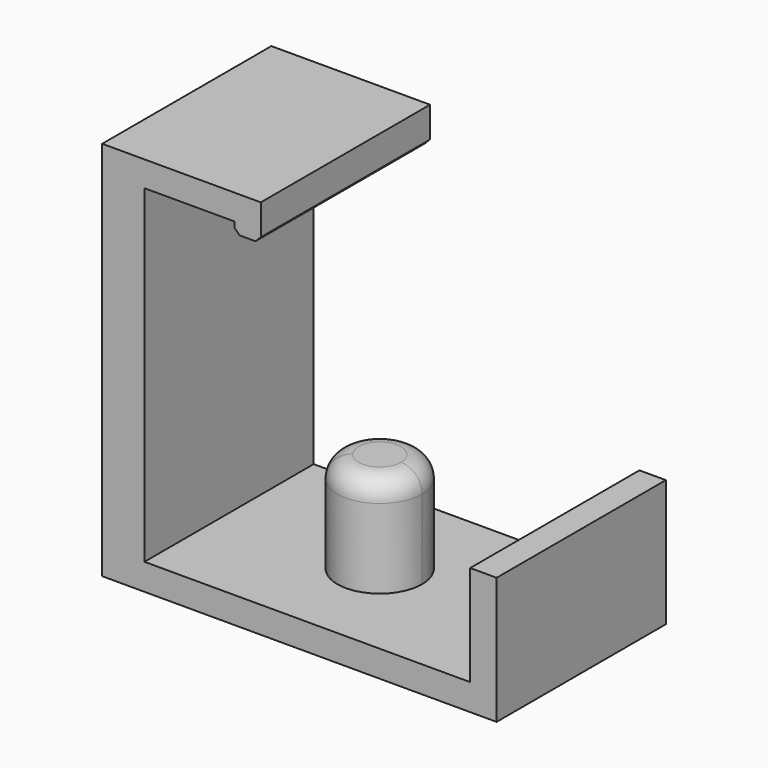
from build123d import *

# Parameters (mm, degrees)
F0_W     = 2.5
F0_H     = 20
F0_W_2   = 4
F0_W_3   = 8.5
F1_DEPTH = 2.5
F2_DEPTH = 12
F3_DEPTH = 12
F4_DEPTH = 36
F5_START = 33.6
F5_DEPTH = 2.4
F6_R     = 2
F7_START = 32.6
F7_DEPTH = 3.4
F8_SIZE  = 0.5


with BuildPart() as f1:
    # F0 (on Top) → F1 (new body)
    with BuildSketch(Plane.XY):
        with BuildLine():
            ThreePointArc((-40.6337848902, 13.9120002314), (-41.3863019049, 16.2473490834), (-40.6337848902, 18.5826979354))
            Line((-40.6337848902, 18.5826979354), (-40.6337848902, 26.2473490834))
            Line((-40.6337848902, 26.2473490834), (-43.1337848902, 26.2473490834))
            Line((-43.1337848902, 26.2473490834), (-43.1337848902, 6.2473490834))
            Line((-43.1337848902, 6.2473490834), (-40.6337848902, 6.2473490834))
            Line((-40.6337848902, 6.2473490834), (-40.6337848902, 13.9120002314))
        make_face()
        with BuildLine():
            ThreePointArc((-40.6337848902, 18.5826979354), (-36.159503621, 20.0545745785), (-33.3863019049, 16.2473490834))
            ThreePointArc((-33.3863019049, 16.2473490834), (-36.159503621, 12.4401235883), (-40.6337848902, 13.9120002314))
            Line((-40.6337848902, 13.9120002314), (-40.6337848902, 6.2473490834))
            Line((-40.6337848902, 6.2473490834), (-20.8337848902, 6.2473490834))
            Line((-20.8337848902, 6.2473490834), (-20.8337848902, 26.2473490834))
            Line((-20.8337848902, 26.2473490834), (-40.6337848902, 26.2473490834))
            Line((-40.6337848902, 26.2473490834), (-40.6337848902, 18.5826979354))
        make_face()
        with BuildLine():
            Line((-40.6337848902, 13.9120002314), (-40.6337848902, 18.5826979354))
            ThreePointArc((-40.6337848902, 18.5826979354), (-41.3863019049, 16.2473490834), (-40.6337848902, 13.9120002314))
        make_face()
        with BuildLine():
            ThreePointArc((-40.6337848902, 13.9120002314), (-36.159503621, 12.4401235883), (-33.3863019049, 16.2473490834))
            ThreePointArc((-33.3863019049, 16.2473490834), (-36.159503621, 20.0545745785), (-40.6337848902, 18.5826979354))
            Line((-40.6337848902, 18.5826979354), (-40.6337848902, 13.9120002314))
        make_face()
        with Locations((-19.5837848902, 16.2473490834)):
            Rectangle(F0_W, F0_H)
        with Locations((-53.6337848902, 16.2473490834)):
            Rectangle(F0_W_2, F0_H)
        with Locations((-47.3837848902, 16.2473490834)):
            Rectangle(F0_W_3, F0_H)
    extrude(amount=F1_DEPTH)

    # F0 (on Top) → F2 (join)
    with BuildSketch(Plane.XY):
        with Locations((-19.5837848902, 16.2473490834)):
            Rectangle(F0_W, F0_H)
    extrude(amount=F2_DEPTH)

    # F0 (on Top) → F3 (join)
    with BuildSketch(Plane.XY):
        with BuildLine():
            Line((-40.6337848902, 13.9120002314), (-40.6337848902, 18.5826979354))
            ThreePointArc((-40.6337848902, 18.5826979354), (-41.3863019049, 16.2473490834), (-40.6337848902, 13.9120002314))
        make_face()
        with BuildLine():
            ThreePointArc((-40.6337848902, 13.9120002314), (-36.159503621, 12.4401235883), (-33.3863019049, 16.2473490834))
            ThreePointArc((-33.3863019049, 16.2473490834), (-36.159503621, 20.0545745785), (-40.6337848902, 18.5826979354))
            Line((-40.6337848902, 18.5826979354), (-40.6337848902, 13.9120002314))
        make_face()
    extrude(amount=F3_DEPTH)

    # F0 (on Top) → F4 (join)
    with BuildSketch(Plane.XY):
        with Locations((-53.6337848902, 16.2473490834)):
            Rectangle(F0_W_2, F0_H)
    extrude(amount=F4_DEPTH)

    # F0 (on Top) → F5 (join)
    with BuildSketch(Plane.XY.offset(F5_START)):
        with Locations((-47.3837848902, 16.2473490834)):
            Rectangle(F0_W_3, F0_H)
    extrude(amount=F5_DEPTH)

    # F6
    f6_edges = [f1.edges().sort_by_distance(p)[0] for p in [
        (-34.138819, 18.582698, 12),
    ]]
    fillet(f6_edges, radius=F6_R)

    # F0 (on Top) → F7 (join)
    with BuildSketch(Plane.XY.offset(F7_START)):
        with BuildLine():
            ThreePointArc((-40.6337848902, 13.9120002314), (-41.3863019049, 16.2473490834), (-40.6337848902, 18.5826979354))
            Line((-40.6337848902, 18.5826979354), (-40.6337848902, 26.2473490834))
            Line((-40.6337848902, 26.2473490834), (-43.1337848902, 26.2473490834))
            Line((-43.1337848902, 26.2473490834), (-43.1337848902, 6.2473490834))
            Line((-43.1337848902, 6.2473490834), (-40.6337848902, 6.2473490834))
            Line((-40.6337848902, 6.2473490834), (-40.6337848902, 13.9120002314))
        make_face()
        with BuildLine():
            Line((-40.6337848902, 13.9120002314), (-40.6337848902, 18.5826979354))
            ThreePointArc((-40.6337848902, 18.5826979354), (-41.3863019049, 16.2473490834), (-40.6337848902, 13.9120002314))
        make_face()
    extrude(amount=F7_DEPTH)

    # F8
    f8_edges = [f1.edges().sort_by_distance(p)[0] for p in [
        (-40.633785, 16.247349, 32.6),
        (-43.133785, 16.247349, 32.6),
    ]]
    chamfer(f8_edges, length=F8_SIZE)


solid = f1.part
